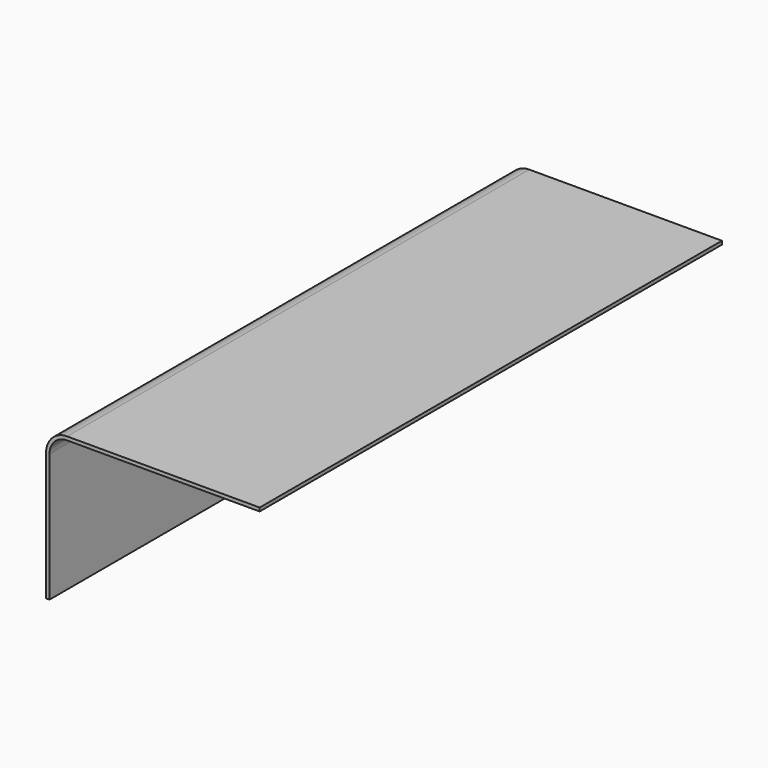
from build123d import *

# Parameters (mm, degrees)
PAD_DEPTH = 495


with BuildPart() as part:
    # Sketch → Pad (new body)
    with BuildSketch(Plane.XZ):
        with BuildLine():
            Line((0, 3), (165, 3))
            Line((165, 3), (165, 0))
            Line((165, 0), (0, 0))
            ThreePointArc((0, 0), (-10.606602, -4.393398), (-15, -15))
            Line((-15, -15), (-15, -125))
            Line((-15, -125), (-18, -125))
            Line((-18, -125), (-18, -15))
            ThreePointArc((0, 3), (-12.727922, -2.272078), (-18, -15))
        make_face()
    extrude(amount=PAD_DEPTH)


solid = part.part
